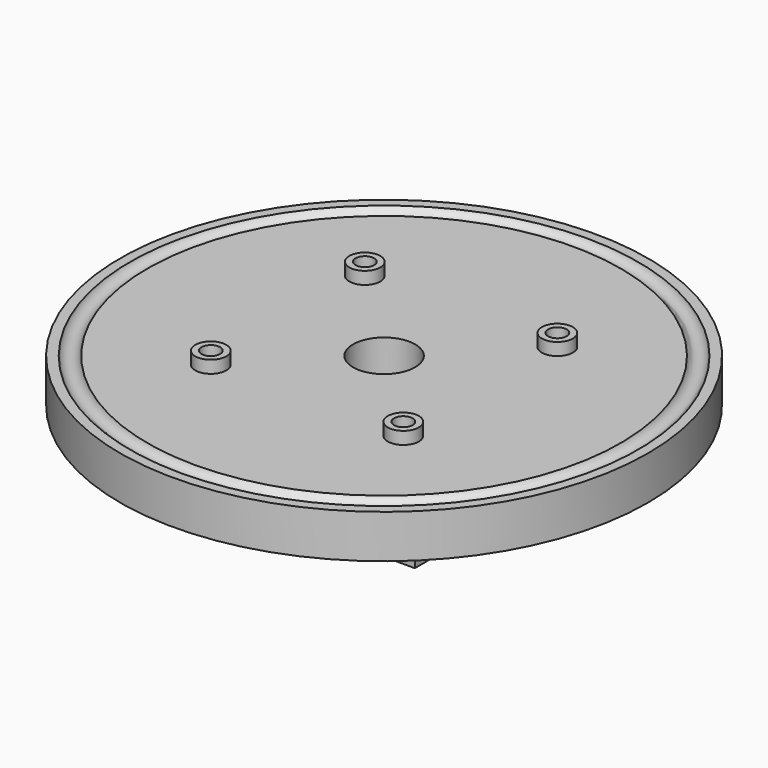
from build123d import *

# Parameters (mm, degrees)
F0_R     = 42.5
F0_R_2   = 1.5
F0_R_3   = 5
F1_DEPTH = 7
F3_W     = 49.497474
F3_H     = 49.497474
F3_W_2   = 42.5
F3_H_2   = 42.5
F4_DEPTH = 5
F5_R     = 2.5
F5_R_2   = 1.5
F6_DEPTH = 2
F7_R     = 1.5


with BuildPart() as f1:
    # F0 (on Top) → F1 (new body)
    with BuildSketch(Plane.XY):
        Circle(F0_R)
        with Locations((-15.5, -15.5)):
            Circle(F0_R_2, mode=Mode.SUBTRACT)
        with Locations((15.5, -15.5)):
            Circle(F0_R_2, mode=Mode.SUBTRACT)
        with Locations((-15.5, 15.5)):
            Circle(F0_R_2, mode=Mode.SUBTRACT)
        Circle(F0_R_3, mode=Mode.SUBTRACT)
        with Locations((15.5, 15.5)):
            Circle(F0_R_2, mode=Mode.SUBTRACT)
    extrude(amount=F1_DEPTH)

    # F3 (on face) → F4 (join)
    with BuildSketch(Plane(origin=(0, 0, 0), x_dir=(1, 0, 0), z_dir=(0, 0, -1))):
        Rectangle(F3_W, F3_H)
        Rectangle(F3_W_2, F3_H_2, mode=Mode.SUBTRACT)
    extrude(amount=F4_DEPTH)

    # F5 (on offset) → F6 (join)
    with BuildSketch(Plane.XY.offset(7)):
        with Locations((-15.5, 15.5)):
            Circle(F5_R)
        with Locations((-15.5, 15.5)):
            Circle(F5_R_2, mode=Mode.SUBTRACT)
        with Locations((15.5, 15.5)):
            Circle(F5_R)
        with Locations((15.5, 15.5)):
            Circle(F5_R_2, mode=Mode.SUBTRACT)
        with Locations((15.5, -15.5)):
            Circle(F5_R)
        with Locations((15.5, -15.5)):
            Circle(F5_R_2, mode=Mode.SUBTRACT)
        with Locations((-15.5, -15.5)):
            Circle(F5_R)
        with Locations((-15.5, -15.5)):
            Circle(F5_R_2, mode=Mode.SUBTRACT)
    extrude(amount=F6_DEPTH)

    # F7 (on Right) → F8 (revolve, cut)
    with BuildSketch(Plane.YZ):
        with Locations((-39.5, 7.5)):
            Circle(F7_R)
    revolve(axis=Axis((0, 0, 7), (0, 0, 1)), mode=Mode.SUBTRACT)


solid = f1.part
